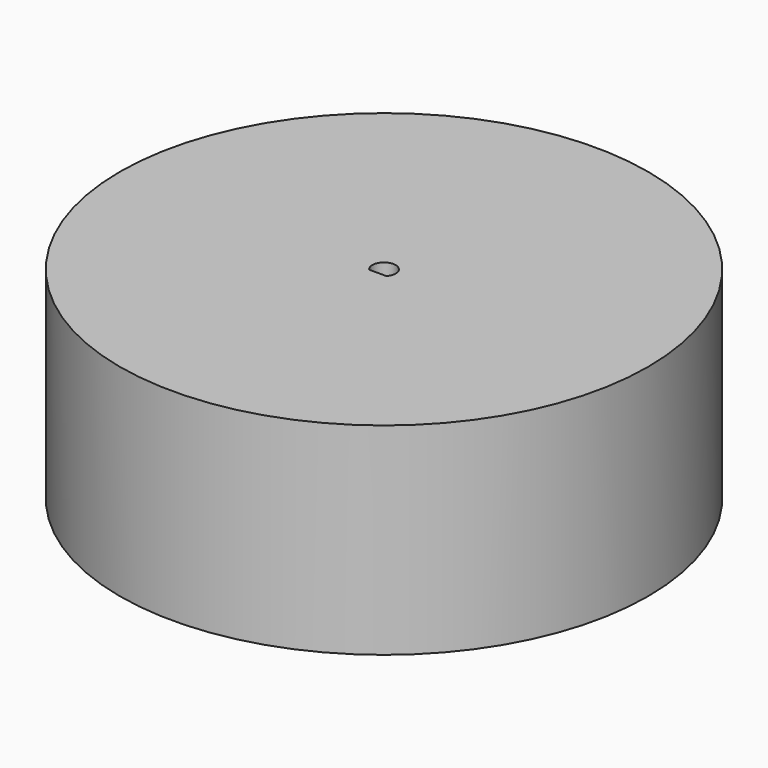
from build123d import *

# Parameters (mm, degrees)
F1_R     = 34
F2_DEPTH = 26


with BuildPart() as f2:
    # F1 (on face) → F2 (new body)
    with BuildSketch(Plane.XY):
        Circle(F1_R)
        with BuildLine():
            ThreePointArc((-1.118034, -1), (0, 1.5), (1.118034, -1))
            Line((1.118034, -1), (-1.118034, -1))
        make_face(mode=Mode.SUBTRACT)
    extrude(amount=F2_DEPTH)


solid = f2.part
